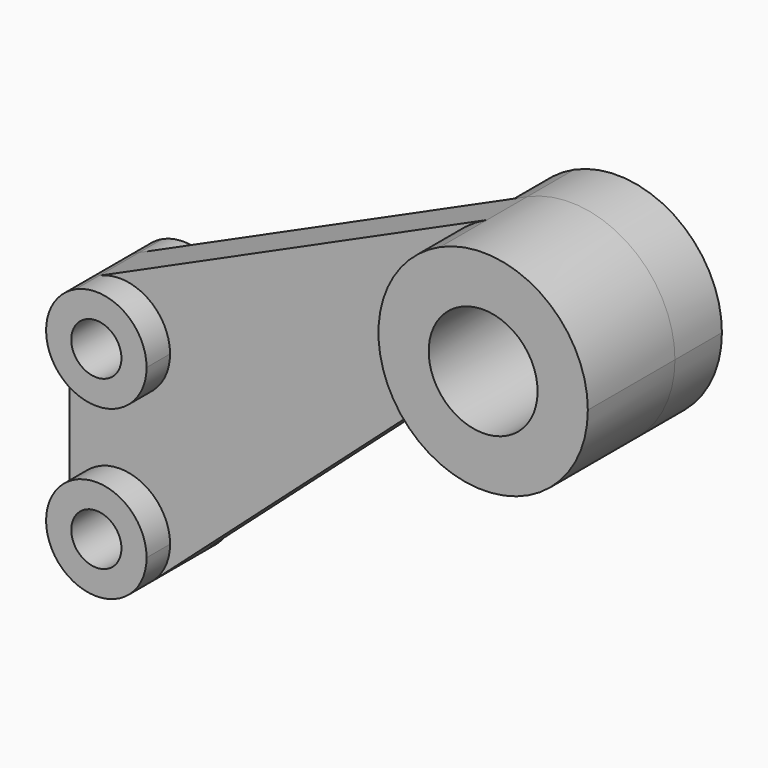
from build123d import *

# Parameters (mm, degrees)
F1_DEPTH      = 11.9888
F0_R          = 5.9944
F2_DEPTH      = 7.0104
F2_DEPTH_BACK = 18.9992
F0_R_2        = 13.0048
F3_DEPTH      = 14.0208
F3_DEPTH_BACK = 26.0096


with BuildPart() as f1:
    # F0 (on Front) → F1 (new body)
    with BuildSketch(Plane.XZ):
        with BuildLine():
            ThreePointArc((-102.9340252947, -19.0601129663), (-91.4840261862, -19.9144114295), (-85.9917, -29.9974))
            ThreePointArc((-85.9917, -29.9974), (-97.9932, -41.9989), (-109.9947, -29.9974))
            Line((-109.9947, -29.9974), (-109.9947, -70.0024))
            ThreePointArc((-109.9947, -70.0024), (-97.9932, -58.0009), (-85.9917, -70.0024))
            ThreePointArc((-85.9917, -70.0024), (-87.0411891719, -74.910501575), (-90.0061083773, -78.9602105395))
            Line((-90.0061083773, -78.9602105395), (-25.6162571026, -21.548007029))
            ThreePointArc((-25.6162571026, -21.548007029), (-19.305050019, -19.660505954), (-12.9493464286, -21.3922758668))
            ThreePointArc((-12.9493464286, -21.3922758668), (-24.9612819832, 1.4998138042), (-10.2946931272, 22.7889081157))
            Line((-10.2946931272, 22.7889081157), (-102.9340252947, -19.0601129663))
        make_face()
    extrude(amount=F1_DEPTH)

    # F0 (on Front) → F2 (join, two sides)
    with BuildSketch(Plane.XZ) as f2_sk:
        with BuildLine():
            ThreePointArc((-109.9947, -29.9974), (-97.9932, -41.9989), (-85.9917, -29.9974))
            ThreePointArc((-85.9917, -29.9974), (-91.4840261862, -19.9144114295), (-102.9340252947, -19.0601129663))
            ThreePointArc((-102.9340252947, -19.0601129663), (-108.0761885705, -23.4882261862), (-109.9947, -29.9974))
        make_face()
        with Locations((-97.9932, -29.9974)):
            Circle(F0_R, mode=Mode.SUBTRACT)
        with BuildLine():
            ThreePointArc((-85.9917, -70.0024), (-97.9932, -58.0009), (-109.9947, -70.0024))
            ThreePointArc((-109.9947, -70.0024), (-102.901301575, -80.9544108281), (-90.0061083773, -78.9602105395))
            ThreePointArc((-90.0061083773, -78.9602105395), (-87.0411891719, -74.910501575), (-85.9917, -70.0024))
        make_face()
        with Locations((-97.9932, -70.0024)):
            Circle(F0_R, mode=Mode.SUBTRACT)
    extrude(amount=-F2_DEPTH)
    extrude(f2_sk.sketch, amount=F2_DEPTH_BACK)

    # F0 (on Front) → F3 (join, two sides)
    with BuildSketch(Plane.XZ) as f3_sk:
        with BuildLine():
            ThreePointArc((25.0063, 0), (13.5625007824, 21.0088936457), (-10.2946931272, 22.7889081157))
            ThreePointArc((-10.2946931272, 22.7889081157), (-24.9612819832, 1.4998138042), (-12.9493464286, -21.3922758668))
            ThreePointArc((-12.9493464286, -21.3922758668), (12.2780250466, -21.7845160755), (25.0063, 0))
        make_face()
        Circle(F0_R_2, mode=Mode.SUBTRACT)
    extrude(amount=-F3_DEPTH)
    extrude(f3_sk.sketch, amount=F3_DEPTH_BACK)


solid = f1.part
